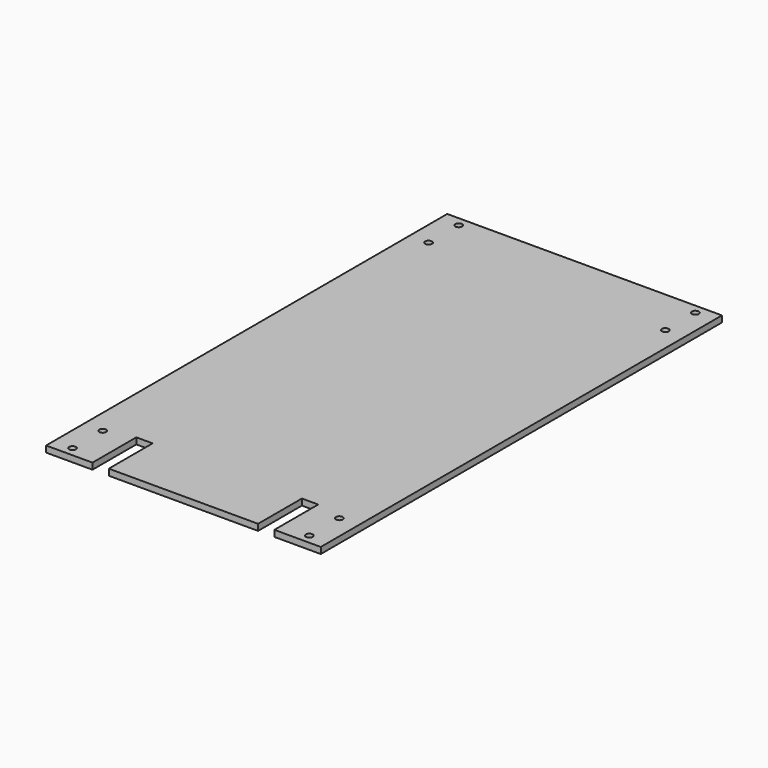
from build123d import *

# Parameters (mm, degrees)
F0_W     = 139.1285
F0_H     = 254
F0_R     = 1.7272
F1_DEPTH = 3.175
F2_W     = 8.255
F2_H     = 27.75093
F3_DEPTH = 3.175


with BuildPart() as f1:
    # F0 (on Top) → F1 (new body)
    with BuildSketch(Plane.XY):
        Rectangle(F0_W, F0_H)
        with Locations((-59.96305, -122.2375)):
            Circle(F0_R, mode=Mode.SUBTRACT)
        with Locations((-59.96305, -103.1875)):
            Circle(F0_R, mode=Mode.SUBTRACT)
        with Locations((59.96305, -122.2375)):
            Circle(F0_R, mode=Mode.SUBTRACT)
        with Locations((59.96305, -103.1875)):
            Circle(F0_R, mode=Mode.SUBTRACT)
        with Locations((-59.96305, 103.1875)):
            Circle(F0_R, mode=Mode.SUBTRACT)
        with Locations((-59.96305, 122.2375)):
            Circle(F0_R, mode=Mode.SUBTRACT)
        with Locations((59.96305, 103.1875)):
            Circle(F0_R, mode=Mode.SUBTRACT)
        with Locations((59.96305, 122.2375)):
            Circle(F0_R, mode=Mode.SUBTRACT)
    extrude(amount=F1_DEPTH)

    # F2 (on face) → F3 (cut, through all)
    with BuildSketch(Plane.XY.offset(3.175)):
        with Locations((-41.94175, -113.124535)):
            Rectangle(F2_W, F2_H)
        with Locations((41.94175, -113.124535)):
            Rectangle(F2_W, F2_H)
    extrude(amount=-F3_DEPTH, mode=Mode.SUBTRACT)


solid = f1.part
